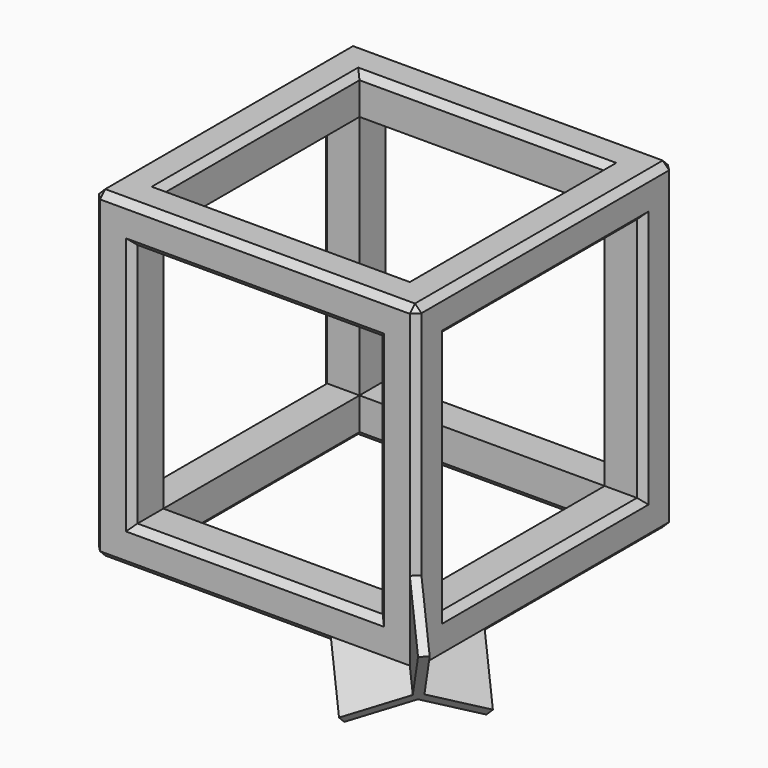
from build123d import *

# Parameters (mm, degrees)
F0_W          = 25
F0_H          = 25
F0_W_2        = 19
F0_H_2        = 19
F1_DEPTH      = 12.5
F1_DEPTH_BACK = 12.5
F2_W          = 19
F2_H          = 19
F3_DEPTH      = 25
F3_DEPTH_BACK = 25
F4_W          = 19
F4_H          = 19
F5_DEPTH      = 25
F5_DEPTH_BACK = 25
F6_SIZE       = 0.5
F9_DEPTH      = 5.5355339059


with BuildPart() as f1:
    # F0 (on Front) → F1 (new body, two sides)
    with BuildSketch(Plane.XZ) as f1_sk:
        Rectangle(F0_W, F0_H)
        Rectangle(F0_W_2, F0_H_2, mode=Mode.SUBTRACT)
    extrude(amount=F1_DEPTH)
    extrude(f1_sk.sketch, amount=-F1_DEPTH_BACK)

    # F2 (on Right) → F3 (cut, two sides)
    with BuildSketch(Plane.YZ) as f3_sk:
        Rectangle(F2_W, F2_H)
    extrude(amount=-F3_DEPTH, mode=Mode.SUBTRACT)
    extrude(f3_sk.sketch, amount=F3_DEPTH_BACK, mode=Mode.SUBTRACT)

    # F4 (on Top) → F5 (cut, two sides)
    with BuildSketch(Plane.XY) as f5_sk:
        Rectangle(F4_W, F4_H)
    extrude(amount=-F5_DEPTH, mode=Mode.SUBTRACT)
    extrude(f5_sk.sketch, amount=F5_DEPTH_BACK, mode=Mode.SUBTRACT)

    # F6
    f6_edges = [f1.edges().sort_by_distance(p)[0] for p in [
        (12.5, -12.5, 0),
        (12.5, 0, -12.5),
        (12.5, 0, 12.5),
        (12.5, 12.5, 0),
        (12.5, 0, -9.5),
        (12.5, -9.5, 0),
        (12.5, 0, 9.5),
        (12.5, 9.5, 0),
        (0, -12.5, 12.5),
        (-12.5, 0, 12.5),
        (0, 12.5, 12.5),
        (9.5, 0, 12.5),
        (0, -9.5, 12.5),
        (-9.5, 0, 12.5),
        (0, 9.5, 12.5),
        (0, -12.5, -12.5),
        (-12.5, -12.5, 0),
        (9.5, -12.5, 0),
        (0, -12.5, -9.5),
        (-9.5, -12.5, 0),
        (0, -12.5, 9.5),
        (0, 12.5, -12.5),
        (-12.5, 12.5, 0),
        (9.5, 12.5, 0),
        (0, 12.5, -9.5),
        (-9.5, 12.5, 0),
        (0, 12.5, 9.5),
        (-12.5, 0, -12.5),
        (-12.5, 0, -9.5),
        (-12.5, 9.5, 0),
        (-12.5, 0, 9.5),
        (-12.5, -9.5, 0),
        (9.5, 0, -12.5),
        (0, 9.5, -12.5),
        (-9.5, 0, -12.5),
        (0, -9.5, -12.5),
    ]]
    chamfer(f6_edges, length=F6_SIZE)

    # F8 (on offset) → F9 (join, through all)
    with BuildSketch(Plane(origin=(13.321367205, -13.321367205, -13.321367205), x_dir=(0.8164965809, 0.4082482905, 0.4082482905), z_dir=(0.5773502692, -0.5773502692, -0.5773502692))):
        Polygon((2.9082482905, -4.3301270189), (0.4082482905, 0), (2.9082482905, 4.3301270189), (2.2958758548, 4.6836804095), (-0.2041241452, 0.3535533906), (-5.2041241452, 0.3535533906), (-5.2041241452, -0.3535533906), (-0.2041241452, -0.3535533906), (2.2958758548, -4.6836804095), align=None)
    extrude(amount=-F9_DEPTH)


solid = f1.part
